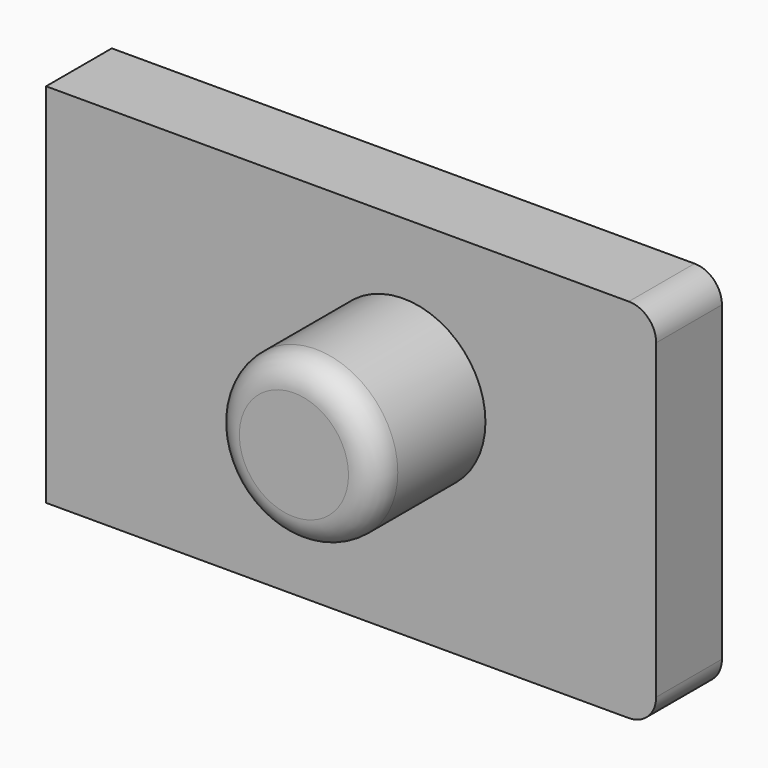
from build123d import *

# Parameters (mm, degrees)
F0_W     = 111.369263
F0_H     = 66.945155
F1_DEPTH = 15
F2_R     = 14.959389
F3_DEPTH = 25
F4_R     = 5


with BuildPart() as f1:
    # F0 (on Front) → F1 (new body)
    with BuildSketch(Plane.XZ):
        with Locations((-1.347209, 4.700554)):
            Rectangle(F0_W, F0_H)
    extrude(amount=F1_DEPTH)

    # F2 (on face) → F3 (join)
    with BuildSketch(Plane.XZ.offset(15)):
        with Locations((8.211179, 10.319434)):
            Circle(F2_R)
    extrude(amount=F3_DEPTH)

    # F4
    f4_edges = [f1.edges().sort_by_distance(p)[0] for p in [
        (54.337423, -7.5, 38.173132),
        (54.337423, -7.5, -28.772023),
        (-6.74821, -40, 10.319434),
    ]]
    fillet(f4_edges, radius=F4_R)


solid = f1.part
